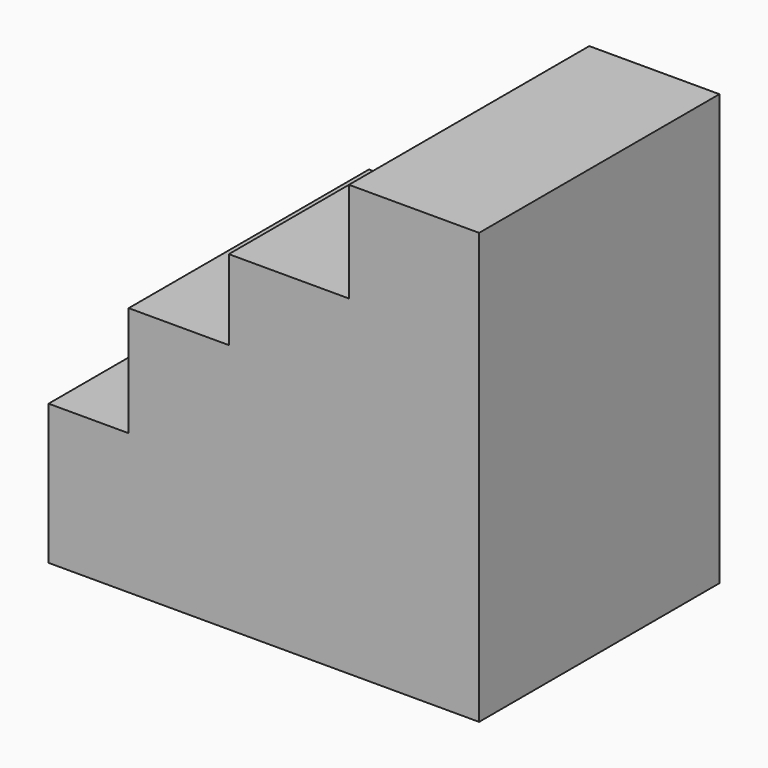
from build123d import *

# Parameters (mm, degrees)
F0_W     = 8
F0_H     = 14
F1_DEPTH = 30


with BuildPart() as f1:
    # F0 (on Front) → F1 (new body)
    with BuildSketch(Plane.XZ):
        with Locations((-39, 7)):
            Rectangle(F0_W, F0_H)
        Polygon((-13, 0), (0, 0), (0, 43), (-13, 43), (-13, 33), align=None)
        Polygon((-25, 0), (-13, 0), (-13, 33), (-25, 33), (-25, 25), align=None)
        Polygon((-35, 0), (-25, 0), (-25, 25), (-35, 25), (-35, 14), align=None)
    extrude(amount=F1_DEPTH)


solid = f1.part
